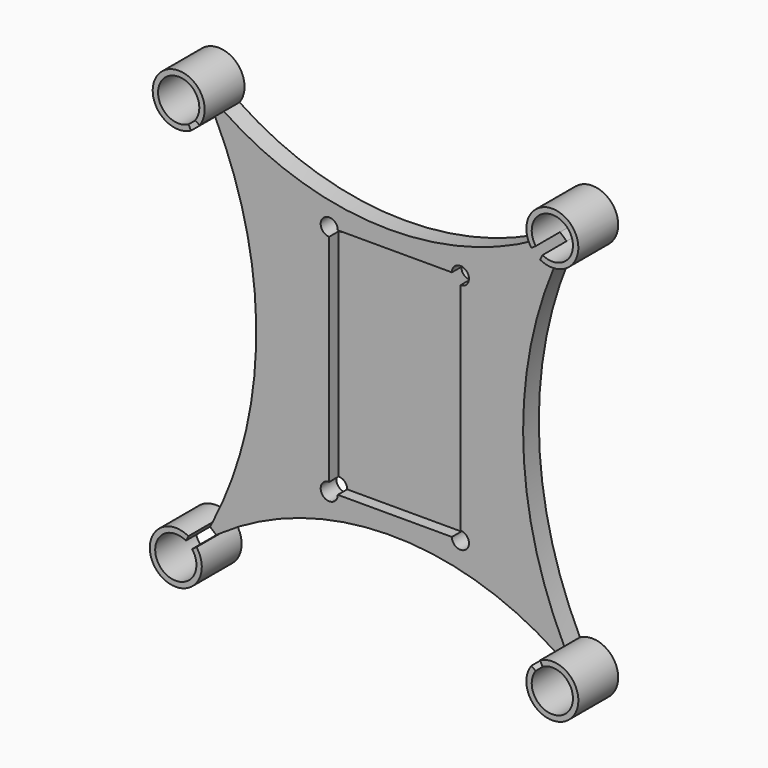
from build123d import *

# Parameters (mm, degrees)
F1_DEPTH = 5
F2_DEPTH = 12.7
F3_DEPTH = 2


with BuildPart() as f1:
    # F0 (on Front) → F1 (new body)
    with BuildSketch(Plane.XZ):
        with BuildLine():
            ThreePointArc((39.432288, -47.378316), (40.00265, -47.756794), (40.569589, -48.140379))
            ThreePointArc((40.569589, -48.140379), (13.513407, -32.581288), (-17.696093, -32.282251))
            ThreePointArc((-17.696093, -32.282251), (-33.551282, -38.724603), (-47.021789, -49.280947))
            ThreePointArc((-47.021789, -49.280947), (-46.46503, -48.882729), (-45.904716, -48.489528))
            ThreePointArc((-45.904716, -48.489528), (-3.406376, -34.866086), (39.432288, -47.378316))
        make_face()
        with BuildLine():
            ThreePointArc((-47.932388, 45.724251), (-47.623421, 45.113689), (-47.318573, 44.50106))
            ThreePointArc((-47.318573, 44.50106), (-36.833831, -1.179528), (-47.969069, -46.70592))
            ThreePointArc((-47.969069, -46.70592), (-48.282623, -47.314139), (-48.600267, -47.920232))
            ThreePointArc((-48.600267, -47.920232), (-31.75396, -1.215758), (-47.932388, 45.724251))
        make_face()
        with BuildLine():
            ThreePointArc((-17.705524, 31.319402), (13.504642, 31.692077), (40.590774, 47.201906))
            ThreePointArc((40.590774, 47.201906), (40.026445, 46.814491), (39.458658, 46.43216))
            ThreePointArc((39.458658, 46.43216), (-2.818066, 33.628679), (-45.09479, 46.43216))
            ThreePointArc((-45.09479, 46.43216), (-45.662576, 46.814491), (-46.226906, 47.201906))
            ThreePointArc((-46.226906, 47.201906), (-33.028628, 37.3528), (-17.705524, 31.319402))
        make_face()
        with BuildLine():
            ThreePointArc((41.682442, 44.50106), (41.987289, 45.113689), (42.296256, 45.724251))
            ThreePointArc((42.296256, 45.724251), (25.839489, -0.454927), (42.296256, -46.634105))
            ThreePointArc((42.296256, -46.634105), (41.987289, -46.023543), (41.682442, -45.410914))
            ThreePointArc((41.682442, -45.410914), (31.195115, -0.454927), (41.682442, 44.50106))
        make_face()
        with BuildLine():
            ThreePointArc((-18.227816, 27.025968), (-20.390359, 29.467524), (-17.705524, 31.319402))
            ThreePointArc((-17.705524, 31.319402), (-33.028628, 37.3528), (-46.226906, 47.201906))
            Line((-46.226906, 47.201906), (-47.932388, 45.724251))
            ThreePointArc((-47.932388, 45.724251), (-31.75396, -1.215758), (-48.600267, -47.920232))
            Line((-48.600267, -47.920232), (-47.021789, -49.280947))
            ThreePointArc((-47.021789, -49.280947), (-33.551282, -38.724603), (-17.696093, -32.282251))
            ThreePointArc((-17.696093, -32.282251), (-20.389766, -30.437547), (-18.227816, -27.991167))
            Line((-18.227816, -27.991167), (-18.227816, 27.025968))
        make_face()
        with BuildLine():
            ThreePointArc((42.296256, -46.634105), (25.839489, -0.454927), (42.296256, 45.724251))
            Line((42.296256, 45.724251), (40.590774, 47.201906))
            ThreePointArc((40.590774, 47.201906), (13.504642, 31.692077), (-17.705524, 31.319402))
            ThreePointArc((-17.705524, 31.319402), (-16.512648, 30.547582), (-16.04933, 29.204453))
            Line((-16.04933, 29.204453), (13.037413, 29.204453))
            ThreePointArc((13.037413, 29.204453), (15.215898, 31.382938), (17.394383, 29.204453))
            ThreePointArc((17.394383, 29.204453), (16.75632, 27.664031), (15.215898, 27.025968))
            Line((15.215898, 27.025968), (15.215898, -27.991167))
            ThreePointArc((15.215898, -27.991167), (16.75632, -28.629231), (17.394383, -30.169653))
            ThreePointArc((17.394383, -30.169653), (15.215898, -32.348138), (13.037413, -30.169653))
            Line((13.037413, -30.169653), (-16.04933, -30.169653))
            ThreePointArc((-16.04933, -30.169653), (-16.509656, -31.508953), (-17.696093, -32.282251))
            ThreePointArc((-17.696093, -32.282251), (13.513407, -32.581288), (40.569589, -48.140379))
            Line((40.569589, -48.140379), (42.296256, -46.634105))
        make_face()
    extrude(amount=F1_DEPTH)

    # F0 (on Front) → F2 (join)
    with BuildSketch(Plane.XZ):
        with BuildLine():
            ThreePointArc((-46.226906, 47.201906), (-45.662576, 46.814491), (-45.09479, 46.43216))
            ThreePointArc((-45.09479, 46.43216), (-54.78809, 55.348642), (-47.318573, 44.50106))
            ThreePointArc((-47.318573, 44.50106), (-47.623421, 45.113689), (-47.932388, 45.724251))
            ThreePointArc((-47.932388, 45.724251), (-53.886676, 54.319623), (-46.226906, 47.201906))
        make_face()
        with BuildLine():
            ThreePointArc((40.590774, 47.201906), (48.250545, 54.319623), (42.296256, 45.724251))
            ThreePointArc((42.296256, 45.724251), (41.987289, 45.113689), (41.682442, 44.50106))
            ThreePointArc((41.682442, 44.50106), (49.151959, 55.348642), (39.458658, 46.43216))
            ThreePointArc((39.458658, 46.43216), (40.026445, 46.814491), (40.590774, 47.201906))
        make_face()
        with BuildLine():
            ThreePointArc((41.682442, -45.410914), (41.987289, -46.023543), (42.296256, -46.634105))
            ThreePointArc((42.296256, -46.634105), (48.263981, -55.217796), (40.569589, -48.140379))
            ThreePointArc((40.569589, -48.140379), (40.00265, -47.756794), (39.432288, -47.378316))
            ThreePointArc((39.432288, -47.378316), (49.168873, -56.243758), (41.682442, -45.410914))
        make_face()
        with BuildLine():
            ThreePointArc((-47.969069, -46.70592), (-55.509084, -57.519203), (-45.904716, -48.489528))
            ThreePointArc((-45.904716, -48.489528), (-46.46503, -48.882729), (-47.021789, -49.280947))
            ThreePointArc((-47.021789, -49.280947), (-54.610249, -56.487931), (-48.600267, -47.920232))
            ThreePointArc((-48.600267, -47.920232), (-48.282623, -47.314139), (-47.969069, -46.70592))
        make_face()
    extrude(amount=F2_DEPTH)

    # F0 (on Front) → F3 (join)
    with BuildSketch(Plane.XZ):
        with BuildLine():
            Line((13.037413, 29.204453), (-16.04933, 29.204453))
            ThreePointArc((-16.04933, 29.204453), (-16.687394, 27.664031), (-18.227816, 27.025968))
            Line((-18.227816, 27.025968), (-18.227816, -27.991167))
            ThreePointArc((-18.227816, -27.991167), (-16.687394, -28.629231), (-16.04933, -30.169653))
            Line((-16.04933, -30.169653), (13.037413, -30.169653))
            ThreePointArc((13.037413, -30.169653), (13.675476, -28.629231), (15.215898, -27.991167))
            Line((15.215898, -27.991167), (15.215898, 27.025968))
            ThreePointArc((15.215898, 27.025968), (13.675476, 27.664031), (13.037413, 29.204453))
        make_face()
    extrude(amount=F3_DEPTH)


solid = f1.part
